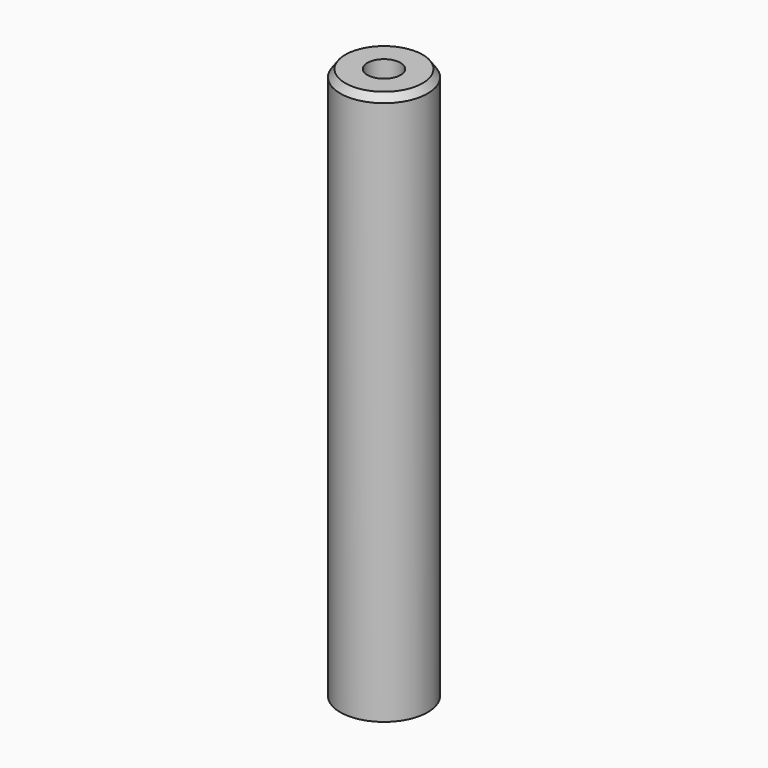
from build123d import *

# Parameters (mm, degrees)
F2_R     = 0.45
F3_DEPTH = 100
F4_R     = 0.5
F5_DEPTH = 10


with BuildPart() as f1:
    # F0 (on Right) → F1 (revolve)
    with BuildSketch(Plane.YZ):
        Polygon((-1.19, 0), (0, 0), (0, 15), (-1.05, 15), (-1.19, 14.8), align=None)
    revolve(axis=Axis((0, 0, 7.5), (0, 0, 1)))

    # F2 (on Top) → F3 (cut)
    with BuildSketch(Plane.XY):
        Circle(F2_R)
    extrude(amount=F3_DEPTH, mode=Mode.SUBTRACT)

    # F4 (on face) → F5 (cut)
    with BuildSketch(Plane(origin=(0, 0, 0), x_dir=(1, 0, 0), z_dir=(0, 0, -1))):
        Circle(F4_R)
    extrude(amount=-F5_DEPTH, mode=Mode.SUBTRACT)


solid = f1.part
